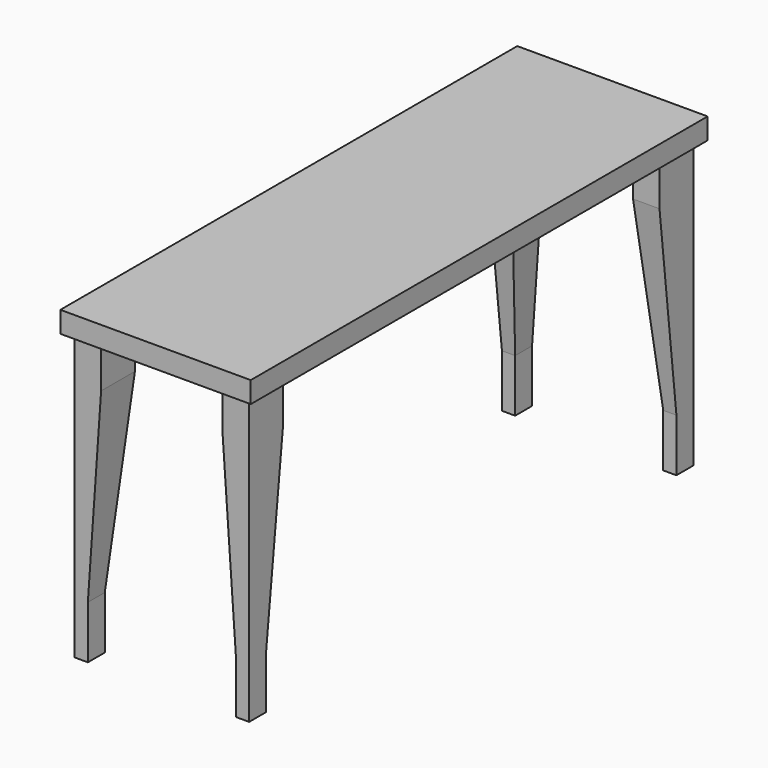
from build123d import *

# Parameters (mm, degrees)
F0_W     = 457.2
F0_H     = 1371.6
F0_W_2   = 419.1
F0_H_2   = 1333.5
F1_DEPTH = 25.4
F2_W     = 457.2
F2_H     = 1371.6
F3_DEPTH = 25.4
F4_W     = 63.5
F4_H     = 101.6
F5_DEPTH = 711.2
F7_DEPTH = 1352.551
F9_DEPTH = 438.151


with BuildPart() as f1:
    # F0 (on Top) → F1 (new body)
    with BuildSketch(Plane.XY):
        with Locations((228.6, 685.8)):
            Rectangle(F0_W, F0_H)
        with Locations((228.6, 685.8)):
            Rectangle(F0_W_2, F0_H_2, mode=Mode.SUBTRACT)
    extrude(amount=F1_DEPTH)

    # F2 (on face) → F3 (join)
    with BuildSketch(Plane.XY.offset(25.4)):
        with Locations((228.6, 685.8)):
            Rectangle(F2_W, F2_H)
    extrude(amount=F3_DEPTH)

    # F4 (on face) → F5 (join)
    with BuildSketch(Plane(origin=(0, 0, 25.4), x_dir=(1, 0, 0), z_dir=(0, 0, -1))):
        with Locations((50.8, -69.85)):
            Rectangle(F4_W, F4_H)
        with Locations((406.4, -69.85)):
            Rectangle(F4_W, F4_H)
        with Locations((50.8, -1301.75)):
            Rectangle(F4_W, F4_H)
        with Locations((406.4, -1301.75)):
            Rectangle(F4_W, F4_H)
    extrude(amount=F5_DEPTH)

    # F6 (on face) → F7 (cut, through all)
    with BuildSketch(Plane.XZ.offset(-19.05)):
        Polygon((50.8, -558.8), (50.8, -685.8), (406.4, -685.8), (406.4, -558.8), (374.65, -101.6), (82.55, -101.6), align=None)
    extrude(amount=-F7_DEPTH, mode=Mode.SUBTRACT)

    # F8 (on face) → F9 (cut, through all)
    with BuildSketch(Plane.YZ.offset(438.15)):
        Polygon((69.85, -558.8), (69.85, -685.8), (1301.75, -685.8), (1301.75, -558.8), (1250.95, -101.6), (120.65, -101.6), align=None)
    extrude(amount=-F9_DEPTH, mode=Mode.SUBTRACT)


solid = f1.part
